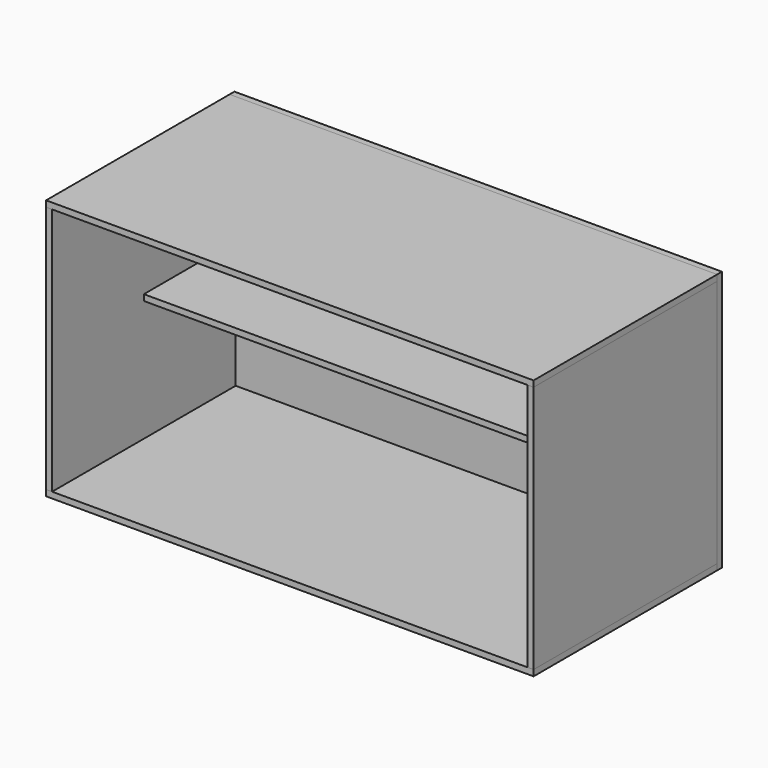
from build123d import *

# Parameters (mm, degrees)
F1_W      = 255
F1_H      = 120
F2_DEPTH  = 3.15
F3_W      = 120
F3_H      = 130
F4_DEPTH  = 3.15
F5_W      = 248.7
F5_H      = 3.15
F6_DEPTH  = 120
F9_W      = 255
F9_H      = 136.3
F10_DEPTH = 3.15
F11_W     = 248.7
F11_H     = 60
F12_DEPTH = 25


with BuildPart() as f2:
    # F1 (on Top) → F2 (new body)
    with BuildSketch(Plane.XY):
        with Locations((127.5, 60)):
            Rectangle(F1_W, F1_H)
    extrude(amount=F2_DEPTH)


with BuildPart() as f4:
    # F3 (on face) → F4 (new body)
    with BuildSketch(Plane(origin=(0, 0, 0), x_dir=(0, -1, 0), z_dir=(-1, 0, 0))):
        with Locations((-60, 68.15)):
            Rectangle(F3_W, F3_H)
    extrude(amount=-F4_DEPTH)


with BuildPart() as f6:
    # F5 (on face) → F6 (new body, through all)
    with BuildSketch(Plane.XZ):
        with Locations((127.5, 68.15)):
            Rectangle(F5_W, F5_H)
    extrude(amount=-F6_DEPTH)

    # F11 (on face) → F12 (cut)
    with BuildSketch(Plane.XY.offset(69.725)):
        with Locations((127.5, 30)):
            Rectangle(F11_W, F11_H)
    extrude(amount=-F12_DEPTH, mode=Mode.SUBTRACT)


with BuildPart() as f7_1:
    # F7: copy of F2
    add(f2.part.moved(Location((0, 0, 133.15))))


with BuildPart() as f8_1:
    # F8: copy of F4
    add(f4.part.moved(Location((251.85, 0, 0))))


with BuildPart() as f10:
    # F9 (on face) → F10 (new body)
    with BuildSketch(Plane(origin=(0, 120, 0), x_dir=(-1, 0, 0), z_dir=(0, 1, 0))):
        with Locations((-127.5, 68.15)):
            Rectangle(F9_W, F9_H)
    extrude(amount=F10_DEPTH)


solid = Compound([f2.part, f4.part, f6.part, f7_1.part, f8_1.part, f10.part])
